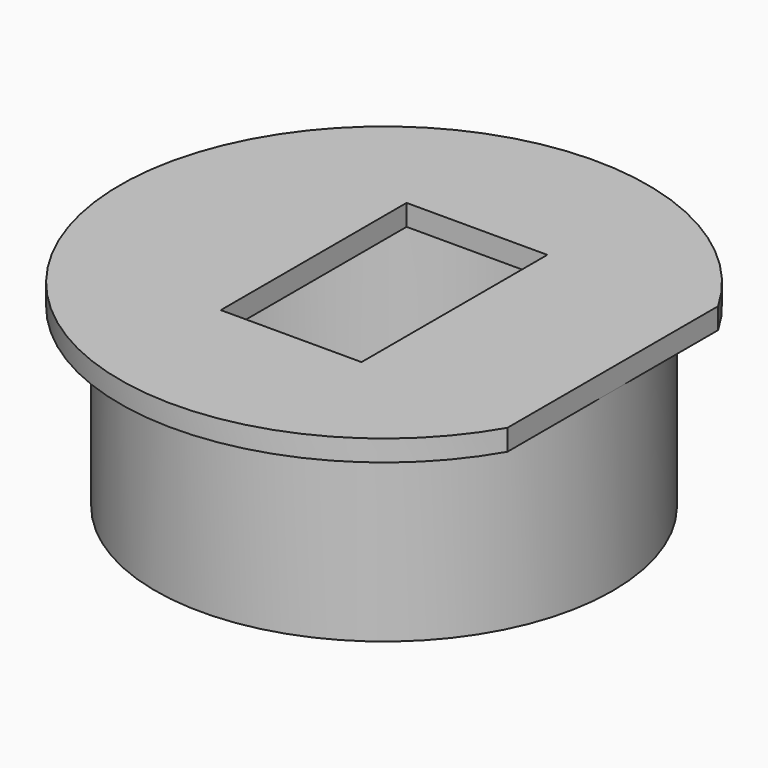
from build123d import *

# Parameters (mm, degrees)
F0_R     = 37.5
F1_DEPTH = 3
F2_R     = 32.5
F2_R_2   = 31
F3_DEPTH = 25
F4_W     = 20
F4_H     = 33
F5_DEPTH = 25
F6_W     = 8.066451
F6_H     = 38.420005
F7_DEPTH = 25


with BuildPart() as f1:
    # F0 (on Top) → F1 (new body)
    with BuildSketch(Plane.XY):
        Circle(F0_R)
    extrude(amount=F1_DEPTH)

    # F2 (on face) → F3 (join)
    with BuildSketch(Plane(origin=(0, 0, 0), x_dir=(1, 0, 0), z_dir=(0, 0, -1))):
        Circle(F2_R)
        Circle(F2_R_2, mode=Mode.SUBTRACT)
    extrude(amount=F3_DEPTH)

    # F4 (on face) → F5 (cut)
    with BuildSketch(Plane.XY.offset(3)):
        Rectangle(F4_W, F4_H)
    extrude(amount=-F5_DEPTH, mode=Mode.SUBTRACT)

    # F6 (on face) → F7 (cut)
    with BuildSketch(Plane(origin=(0, 0, 0), x_dir=(1, 0, 0), z_dir=(0, 0, -1))):
        with Locations((36.533226, 0.501715)):
            Rectangle(F6_W, F6_H)
    extrude(amount=-F7_DEPTH, mode=Mode.SUBTRACT)


solid = f1.part
